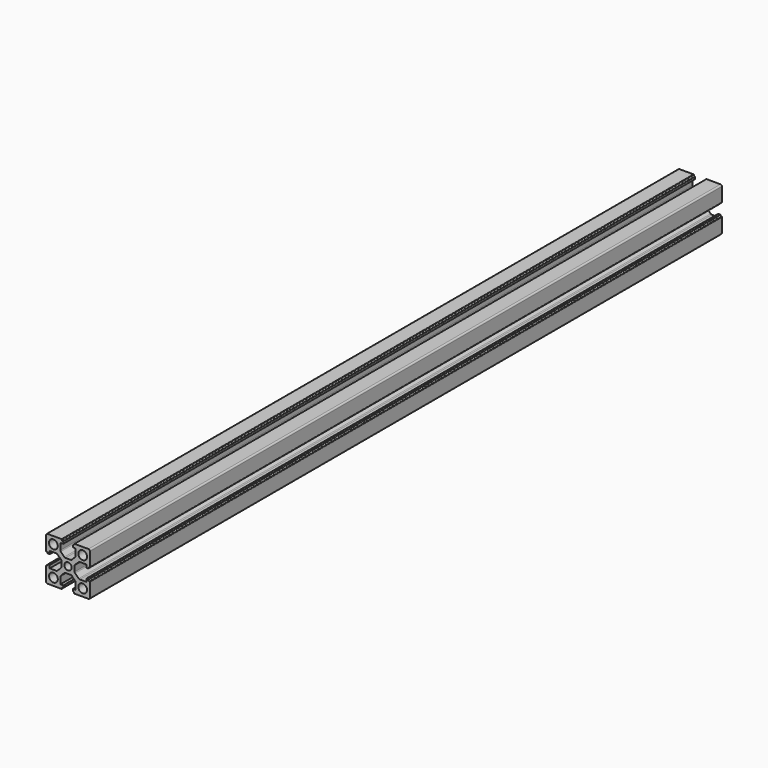
from build123d import *

# Parameters (mm, degrees)
F0_R     = 3
F0_R_2   = 2.5
F1_DEPTH = 540


with BuildPart() as f1:
    # F0 (on Front) → F1 (new body)
    with BuildSketch(Plane.XZ):
        with BuildLine():
            Line((-4.5, 15), (-14, 15))
            ThreePointArc((-14, 15), (-14.707107, 14.707107), (-15, 14))
            Line((-15, 14), (-15, 4.5))
            ThreePointArc((-15, 4.5), (-14.912132, 4.287868), (-14.7, 4.2))
            Line((-14.7, 4.2), (-14.5, 4.2))
            ThreePointArc((-14.5, 4.2), (-14.146447, 4.053553), (-14, 3.7))
            Line((-14, 3.7), (-14, 3.55))
            ThreePointArc((-14, 3.55), (-13.912132, 3.337868), (-13.7, 3.25))
            Line((-13.7, 3.25), (-12.5, 3.25))
            Line((-12.5, 3.25), (-12.5, 5.25))
            Line((-12.5, 5.25), (-8.004644, 5.25))
            ThreePointArc((-8.004644, 5.25), (-7.629545, 5.176985), (-7.309222, 4.968602))
            Line((-7.309222, 4.968602), (-4.804579, 2.544753))
            ThreePointArc((-4.804579, 2.544753), (-4.579288, 2.216394), (-4.5, 1.826151))
            Line((-4.5, 1.826151), (-4.5, -1.826151))
            ThreePointArc((-4.5, -1.826151), (-4.579288, -2.216394), (-4.804579, -2.544753))
            Line((-4.804579, -2.544753), (-7.309222, -4.968602))
            ThreePointArc((-7.309222, -4.968602), (-7.629545, -5.176985), (-8.004644, -5.25))
            Line((-8.004644, -5.25), (-12.5, -5.25))
            Line((-12.5, -5.25), (-12.5, -3.25))
            Line((-12.5, -3.25), (-13.7, -3.25))
            ThreePointArc((-13.7, -3.25), (-13.912132, -3.337868), (-14, -3.55))
            Line((-14, -3.55), (-14, -3.7))
            ThreePointArc((-14, -3.7), (-14.146447, -4.053553), (-14.5, -4.2))
            Line((-14.5, -4.2), (-14.7, -4.2))
            ThreePointArc((-14.7, -4.2), (-14.912132, -4.287868), (-15, -4.5))
            Line((-15, -4.5), (-15, -14))
            ThreePointArc((-15, -14), (-14.707107, -14.707107), (-14, -15))
            Line((-14, -15), (-4.5, -15))
            ThreePointArc((-4.5, -15), (-4.287868, -14.912132), (-4.2, -14.7))
            Line((-4.2, -14.7), (-4.2, -14.5))
            ThreePointArc((-4.2, -14.5), (-4.053553, -14.146447), (-3.7, -14))
            Line((-3.7, -14), (-3.55, -14))
            ThreePointArc((-3.55, -14), (-3.337868, -13.912132), (-3.25, -13.7))
            Line((-3.25, -13.7), (-3.25, -12.5))
            Line((-3.25, -12.5), (-5.25, -12.5))
            Line((-5.25, -12.5), (-5.25, -8.004644))
            ThreePointArc((-5.25, -8.004644), (-5.176985, -7.629545), (-4.968602, -7.309222))
            Line((-4.968602, -7.309222), (-2.544753, -4.804579))
            ThreePointArc((-2.544753, -4.804579), (-2.216394, -4.579288), (-1.826151, -4.5))
            Line((-1.826151, -4.5), (1.826151, -4.5))
            ThreePointArc((1.826151, -4.5), (2.216394, -4.579288), (2.544753, -4.804579))
            Line((2.544753, -4.804579), (4.968602, -7.309222))
            ThreePointArc((4.968602, -7.309222), (5.176985, -7.629545), (5.25, -8.004644))
            Line((5.25, -8.004644), (5.25, -12.5))
            Line((5.25, -12.5), (3.25, -12.5))
            Line((3.25, -12.5), (3.25, -13.7))
            ThreePointArc((3.25, -13.7), (3.337868, -13.912132), (3.55, -14))
            Line((3.55, -14), (3.7, -14))
            ThreePointArc((3.7, -14), (4.053553, -14.146447), (4.2, -14.5))
            Line((4.2, -14.5), (4.2, -14.7))
            ThreePointArc((4.2, -14.7), (4.287868, -14.912132), (4.5, -15))
            Line((4.5, -15), (14, -15))
            ThreePointArc((14, -15), (14.707107, -14.707107), (15, -14))
            Line((15, -14), (15, -4.5))
            ThreePointArc((15, -4.5), (14.912132, -4.287868), (14.7, -4.2))
            Line((14.7, -4.2), (14.5, -4.2))
            ThreePointArc((14.5, -4.2), (14.146447, -4.053553), (14, -3.7))
            Line((14, -3.7), (14, -3.55))
            ThreePointArc((14, -3.55), (13.912132, -3.337868), (13.7, -3.25))
            Line((13.7, -3.25), (12.5, -3.25))
            Line((12.5, -3.25), (12.5, -5.25))
            Line((12.5, -5.25), (8.004644, -5.25))
            ThreePointArc((8.004644, -5.25), (7.629545, -5.176985), (7.309222, -4.968602))
            Line((7.309222, -4.968602), (4.804579, -2.544753))
            ThreePointArc((4.804579, -2.544753), (4.579288, -2.216394), (4.5, -1.826151))
            Line((4.5, -1.826151), (4.5, 1.826151))
            ThreePointArc((4.5, 1.826151), (4.579288, 2.216394), (4.804579, 2.544753))
            Line((4.804579, 2.544753), (7.309222, 4.968602))
            ThreePointArc((7.309222, 4.968602), (7.629545, 5.176985), (8.004644, 5.25))
            Line((8.004644, 5.25), (12.5, 5.25))
            Line((12.5, 5.25), (12.5, 3.25))
            Line((12.5, 3.25), (13.7, 3.25))
            ThreePointArc((13.7, 3.25), (13.912132, 3.337868), (14, 3.55))
            Line((14, 3.55), (14, 3.7))
            ThreePointArc((14, 3.7), (14.146447, 4.053553), (14.5, 4.2))
            Line((14.5, 4.2), (14.7, 4.2))
            ThreePointArc((14.7, 4.2), (14.912132, 4.287868), (15, 4.5))
            Line((15, 4.5), (15, 14))
            ThreePointArc((15, 14), (14.707107, 14.707107), (14, 15))
            Line((14, 15), (4.5, 15))
            ThreePointArc((4.5, 15), (4.287868, 14.912132), (4.2, 14.7))
            Line((4.2, 14.7), (4.2, 14.5))
            ThreePointArc((4.2, 14.5), (4.053553, 14.146447), (3.7, 14))
            Line((3.7, 14), (3.55, 14))
            ThreePointArc((3.55, 14), (3.337868, 13.912132), (3.25, 13.7))
            Line((3.25, 13.7), (3.25, 12.5))
            Line((3.25, 12.5), (5.25, 12.5))
            Line((5.25, 12.5), (5.25, 8.004644))
            ThreePointArc((5.25, 8.004644), (5.176985, 7.629545), (4.968602, 7.309222))
            Line((4.968602, 7.309222), (2.544753, 4.804579))
            ThreePointArc((2.544753, 4.804579), (2.216394, 4.579288), (1.826151, 4.5))
            Line((1.826151, 4.5), (-1.826151, 4.5))
            ThreePointArc((-1.826151, 4.5), (-2.216394, 4.579288), (-2.544753, 4.804579))
            Line((-2.544753, 4.804579), (-4.968602, 7.309222))
            ThreePointArc((-4.968602, 7.309222), (-5.176985, 7.629545), (-5.25, 8.004644))
            Line((-5.25, 8.004644), (-5.25, 12.5))
            Line((-5.25, 12.5), (-3.25, 12.5))
            Line((-3.25, 12.5), (-3.25, 13.7))
            ThreePointArc((-3.25, 13.7), (-3.337868, 13.912132), (-3.55, 14))
            Line((-3.55, 14), (-3.7, 14))
            ThreePointArc((-3.7, 14), (-4.053553, 14.146447), (-4.2, 14.5))
            Line((-4.2, 14.5), (-4.2, 14.7))
            ThreePointArc((-4.2, 14.7), (-4.287868, 14.912132), (-4.5, 15))
        make_face()
        with Locations((-10, -10)):
            Circle(F0_R, mode=Mode.SUBTRACT)
        with Locations((10, -10)):
            Circle(F0_R, mode=Mode.SUBTRACT)
        with Locations((-10, 10)):
            Circle(F0_R, mode=Mode.SUBTRACT)
        Circle(F0_R_2, mode=Mode.SUBTRACT)
        with Locations((10, 10)):
            Circle(F0_R, mode=Mode.SUBTRACT)
    extrude(amount=F1_DEPTH)


solid = f1.part
